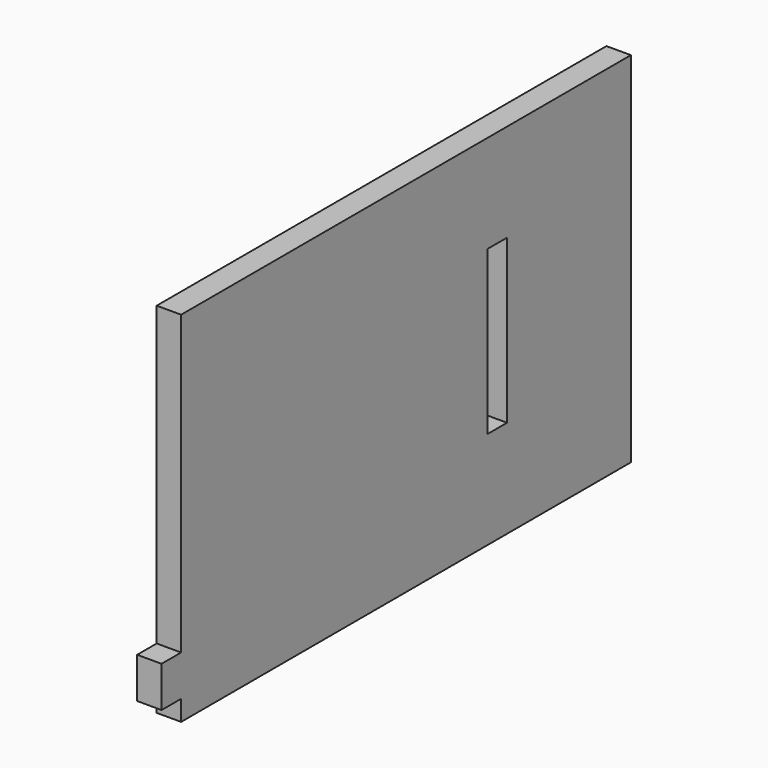
from build123d import *

# Parameters (mm, degrees)
F0_W     = 6
F0_H     = 40
F1_DEPTH = 6


with BuildPart() as f1:
    # F0 (on Right) → F1 (new body)
    with BuildSketch(Plane.YZ):
        Polygon((-71.938713, -36.029875), (66.061287, -36.029875), (66.061287, 51.970125), (-71.938713, 51.970125), (-71.938713, -21.029875), (-77.938713, -21.029875), (-77.938713, -31.029875), (-71.938713, -31.029875), align=None)
        with Locations((25.061287, 7.970125)):
            Rectangle(F0_W, F0_H, mode=Mode.SUBTRACT)
    extrude(amount=F1_DEPTH)


solid = f1.part
